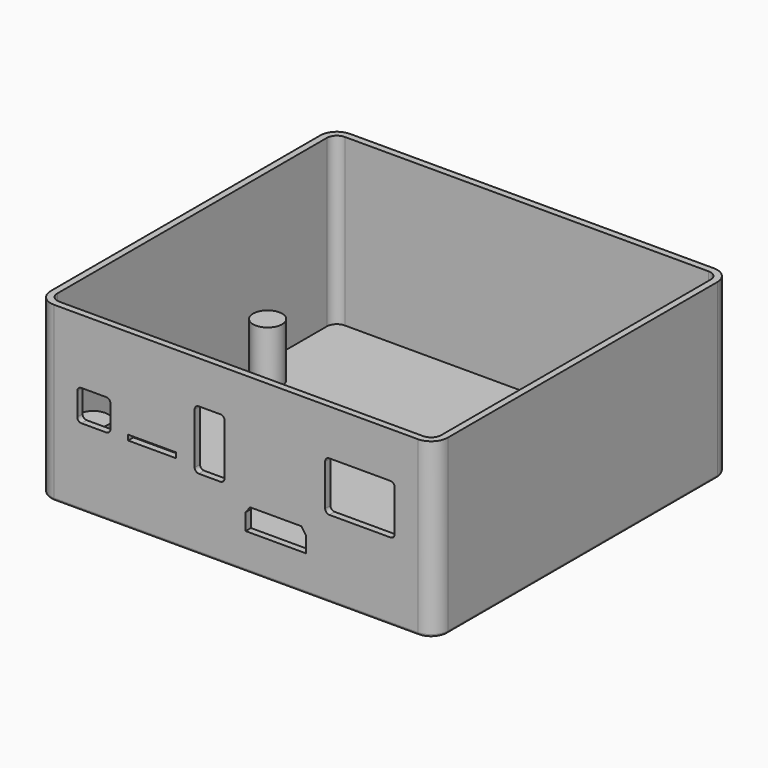
from build123d import *

# Parameters (mm, degrees)
SKETCH004_W    = 11.5
SKETCH004_H    = 1.25
PAD003_DEPTH   = 3
PAD_DEPTH      = 40
PAD_DEPTH_BACK = 1.6
THICKNESS_T    = -1.6
SKETCH002_R    = 1.75
PAD001_DEPTH   = 13
SKETCH003_R    = 3.5
PAD002_DEPTH   = 13
FILLET_R       = 0.6


with BuildPart() as pad003:
    # Sketch004 → Pad003 (new body)
    with BuildSketch(Plane.XZ.offset(44.6)):
        with BuildLine():
            Line((22.5, 29), (37.25, 29))
            ThreePointArc((38.25, 28), (37.957107, 28.707107), (37.25, 29))
            Line((38.25, 28), (38.25, 18))
            ThreePointArc((37.25, 17), (37.957107, 17.292893), (38.25, 18))
            Line((37.25, 17), (22.5, 17))
            ThreePointArc((21.5, 18), (21.792893, 17.292893), (22.5, 17))
            Line((21.5, 18), (21.5, 28))
            ThreePointArc((22.5, 29), (21.792893, 28.707107), (21.5, 28))
        make_face()
        with BuildLine():
            Line((-8.95, 29.8), (-3.75, 29.8))
            ThreePointArc((-2.75, 28.8), (-3.042893, 29.507107), (-3.75, 29.8))
            Line((-2.75, 28.8), (-2.75, 16.5))
            ThreePointArc((-3.75, 15.5), (-3.042893, 15.792893), (-2.75, 16.5))
            Line((-3.75, 15.5), (-8.95, 15.5))
            ThreePointArc((-9.95, 16.5), (-9.657107, 15.792893), (-8.95, 15.5))
            Line((-9.95, 16.5), (-9.95, 28.8))
            ThreePointArc((-8.95, 29.8), (-9.657107, 29.507107), (-9.95, 28.8))
        make_face()
        with BuildLine():
            Line((-37.25, 24.5), (-31.25, 24.5))
            ThreePointArc((-30.25, 23.5), (-30.542893, 24.207107), (-31.25, 24.5))
            Line((-30.25, 23.5), (-30.25, 18))
            ThreePointArc((-31.25, 17), (-30.542893, 17.292893), (-30.25, 18))
            Line((-31.25, 17), (-37.25, 17))
            ThreePointArc((-38.25, 18), (-37.957107, 17.292893), (-37.25, 17))
            Line((-38.25, 18), (-38.25, 23.5))
            ThreePointArc((-37.25, 24.5), (-37.957107, 24.207107), (-38.25, 23.5))
        make_face()
        with Locations((-20.25, 17.625)):
            Rectangle(SKETCH004_W, SKETCH004_H)
        Polygon((2.333401, 7), (2.333401, 11.006851), (3.391764, 12.4), (15.751917, 12.4), (16.833401, 10.855655), (16.833401, 7), align=None)
    extrude(amount=-PAD003_DEPTH)


with BuildPart() as fillet_body:
    # Sketch001 → Pad (new body, two sides)
    with BuildSketch(Plane.XY) as pad_sk:
        with BuildLine():
            Line((-43.85, 44.6), (43.85, 44.6))
            ThreePointArc((47.85, 40.6), (46.678427, 43.428427), (43.85, 44.6))
            Line((47.85, 40.6), (47.85, -40.6))
            ThreePointArc((43.85, -44.6), (46.678427, -43.428427), (47.85, -40.6))
            Line((43.85, -44.6), (-43.85, -44.6))
            ThreePointArc((-47.85, -40.6), (-46.678427, -43.428427), (-43.85, -44.6))
            Line((-47.85, -40.6), (-47.85, 40.6))
            ThreePointArc((-43.85, 44.6), (-46.678427, 43.428427), (-47.85, 40.6))
        make_face()
    extrude(amount=PAD_DEPTH)
    extrude(pad_sk.sketch, amount=-PAD_DEPTH_BACK)

    # Thickness
    thickness_openings = [fillet_body.faces().sort_by_distance(p)[0] for p in [
        (0, 0, 40),
    ]]
    offset(amount=THICKNESS_T, openings=thickness_openings)

    # Sketch002 → Pad001 (new body)
    with BuildSketch(Plane.XY):
        with Locations((-41.25, -36)):
            Circle(SKETCH002_R)
        with Locations((41.25, -36)):
            Circle(SKETCH002_R)
        with Locations((-41.25, 16.5)):
            Circle(SKETCH002_R)
        with Locations((41.25, 36)):
            Circle(SKETCH002_R)
    extrude(amount=PAD001_DEPTH)

    # Sketch003 → Pad002 (new body)
    with BuildSketch(Plane.XY):
        with Locations((41.25, -36)):
            Circle(SKETCH003_R)
        with Locations((41.25, 36)):
            Circle(SKETCH003_R)
        with Locations((-41.25, 16.5)):
            Circle(SKETCH003_R)
        with Locations((-41.25, -36)):
            Circle(SKETCH003_R)
    extrude(amount=PAD002_DEPTH)

    # Cut: cut Pad003
    add(pad003.part, mode=Mode.SUBTRACT)

    # Fillet
    fillet_edges = [fillet_body.edges().sort_by_distance(p)[0] for p in [
        (0, 44.6, -1.6),
        (46.678427, 43.428427, -1.6),
        (47.85, 0, -1.6),
        (46.678427, -43.428427, -1.6),
        (0, -44.6, -1.6),
        (-46.678427, -43.428427, -1.6),
        (-47.85, 0, -1.6),
        (-46.678427, 43.428427, -1.6),
    ]]
    fillet(fillet_edges, radius=FILLET_R)


solid = fillet_body.part
